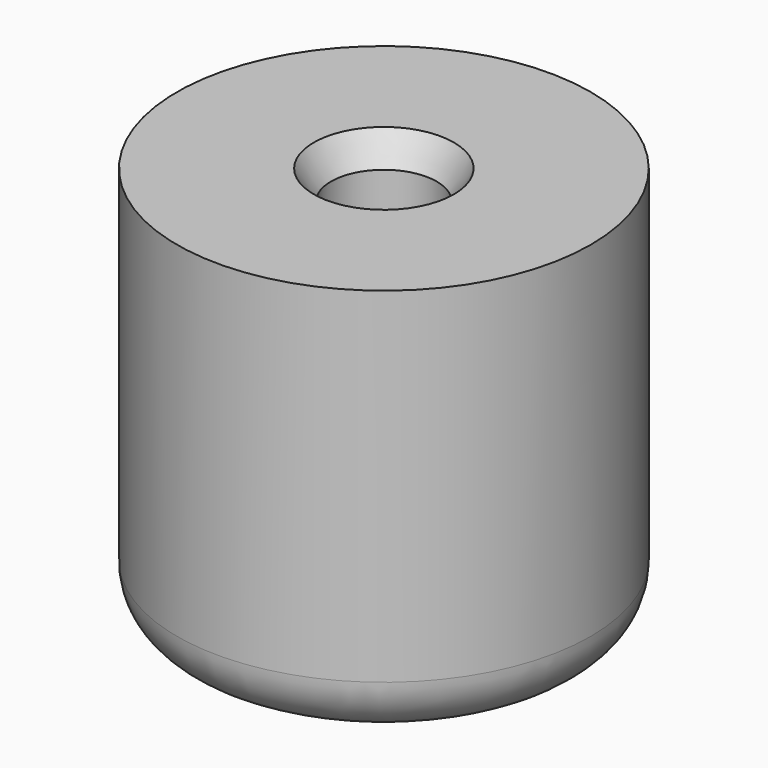
from build123d import *

# Parameters (mm, degrees)
F2_R     = 11
F2_R_2   = 10
F2_R_3   = 8
F2_R_4   = 7
F2_R_5   = 5
F2_R_6   = 4
F3_DEPTH = 1
F4_SIZE  = 0.4
F5_SIZE  = 0.4


with BuildPart() as f1:
    # F0 (on Front) → F1 (revolve)
    with BuildSketch(Plane.XZ):
        with BuildLine():
            Line((0, 12.75), (0, 0))
            Line((0, 0), (13, 0))
            ThreePointArc((13, 0), (16.535534, 1.464466), (18, 5))
            Line((18, 5), (18, 35))
            Line((18, 35), (6.1, 35))
            Line((6.1, 35), (4.6, 32.5))
            Line((4.6, 32.5), (4.6, 12.75))
            Line((4.6, 12.75), (0, 12.75))
        make_face()
    revolve(axis=Axis((0, 0, 24.334948), (0, 0, 1)))

    # F2 (on face) → F3 (cut)
    with BuildSketch(Plane(origin=(0, 0, 0), x_dir=(1, 0, 0), z_dir=(0, 0, -1))):
        Circle(F2_R)
        Circle(F2_R_2, mode=Mode.SUBTRACT)
        Circle(F2_R_3)
        Circle(F2_R_4, mode=Mode.SUBTRACT)
        Circle(F2_R_5)
        Circle(F2_R_6, mode=Mode.SUBTRACT)
    extrude(amount=-F3_DEPTH, mode=Mode.SUBTRACT)

    # F4
    f4_edges = [f1.edges().sort_by_distance(p)[0] for p in [
        (-11, 0, 0),
        (-10, 0, 0),
        (-8, 0, 0),
        (-7, 0, 0),
        (-5, 0, 0),
        (-4, 0, 0),
    ]]
    chamfer(f4_edges, length=F4_SIZE)

    # F5
    f5_edges = [f1.edges().sort_by_distance(p)[0] for p in [
        (-11, 0, 1),
        (-10, 0, 1),
        (-8, 0, 1),
        (-7, 0, 1),
        (-5, 0, 1),
        (-4, 0, 1),
    ]]
    chamfer(f5_edges, length=F5_SIZE)


solid = f1.part
